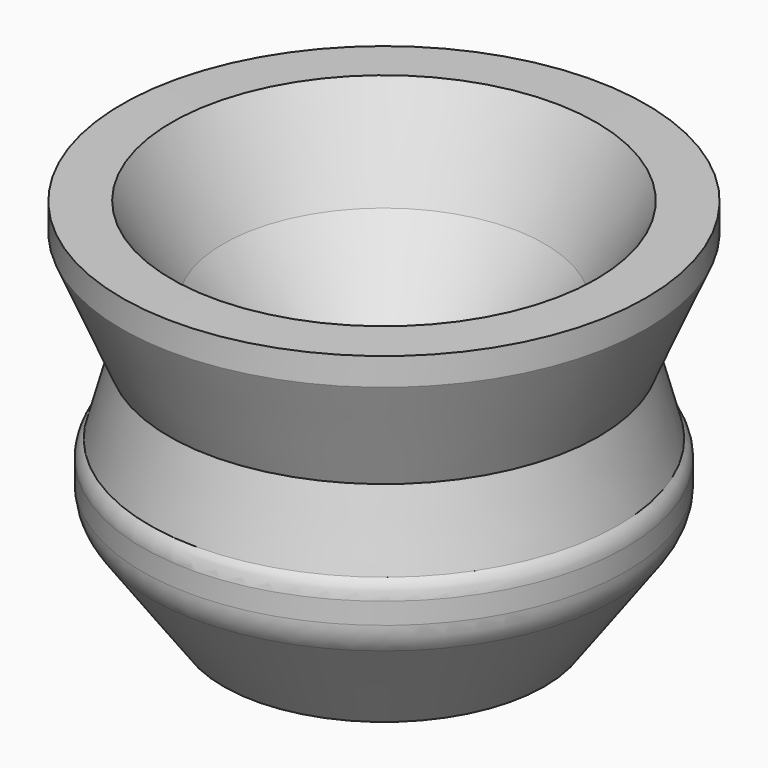
from build123d import *


with BuildPart() as f1:
    # F0 (on Front) → F1 (revolve)
    with BuildSketch(Plane.XZ):
        with BuildLine():
            Line((-4.991404, 27.199442), (-4.991404, 0))
            Line((-4.991404, 0), (35.008596, 0))
            Line((35.008596, 0), (52.980236, 24.937051))
            ThreePointArc((52.980236, 24.937051), (54.598683, 28.136221), (55.156134, 31.677874))
            Line((55.156134, 31.677874), (55.156134, 36.973636))
            ThreePointArc((55.156134, 36.973636), (54.70711, 39.319052), (53.423542, 41.332769))
            Line((53.423542, 41.332769), (48.533764, 59.208133))
            Line((48.533764, 59.208133), (60.298596, 86.575069))
            Line((60.298596, 86.575069), (60.298596, 93.405227))
            Line((60.298596, 93.405227), (47.884241, 93.482569))
            Line((47.884241, 93.482569), (35.008596, 71.05868))
            Line((35.008596, 71.05868), (0, 27.199442))
            Line((0, 27.199442), (-4.991404, 27.199442))
        make_face()
    revolve(axis=Axis((-4.991404, 0, 50.455429), (0, 0, 1)))


solid = f1.part
